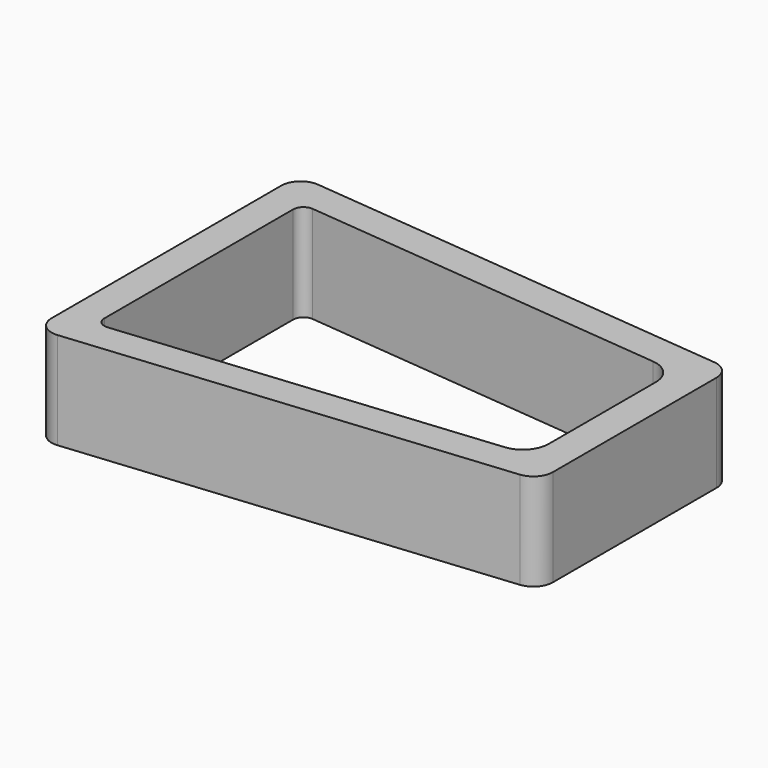
from build123d import *

# Parameters (mm, degrees)
F1_DEPTH = 9.525
F2_R     = 1.905
F3_R     = 1.016
F4_R     = 2.54


with BuildPart() as f1:
    # F0 (on Top) → F1 (new body)
    with BuildSketch(Plane.XY):
        Polygon((-3.175, 16.309805), (-3.175, -16.08006), (42.799, -11.659483), (42.799, 11.889228), align=None)
        Polygon((39.624, -8.775128), (0, -12.585128), (0, 12.814872), (39.624, 9.004872), align=None, mode=Mode.SUBTRACT)
    extrude(amount=F1_DEPTH)

    # F2
    f2_edges = [f1.edges().sort_by_distance(p)[0] for p in [
        (42.799, -11.659483, 4.7625),
        (42.799, 11.889228, 4.7625),
        (-3.175, 16.309805, 4.7625),
        (-3.175, -16.08006, 4.7625),
    ]]
    fillet(f2_edges, radius=F2_R)

    # F3
    f3_edges = [f1.edges().sort_by_distance(p)[0] for p in [
        (0, 12.814872, 4.7625),
        (0, -12.585128, 4.7625),
    ]]
    fillet(f3_edges, radius=F3_R)

    # F4
    f4_edges = [f1.edges().sort_by_distance(p)[0] for p in [
        (39.624, 9.004872, 4.7625),
        (39.624, -8.775128, 4.7625),
    ]]
    fillet(f4_edges, radius=F4_R)


solid = f1.part
